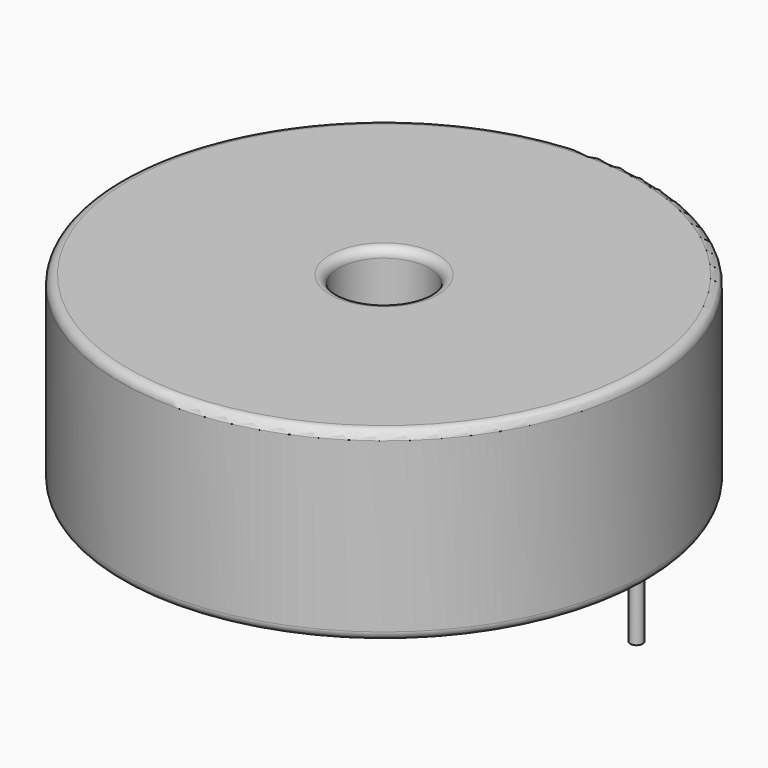
from build123d import *

# Parameters (mm, degrees)
SKETCH_R          = 14.9
SKETCH_R_2        = 2.55
PAD_DEPTH         = 10.5
FILLET_R          = 0.5
SKETCH001_R       = 0.35
PAD001_DEPTH      = 5.25
PAD001_DEPTH_BACK = 3.5


with BuildPart() as fillet_body:
    # Sketch → Pad (new body)
    with BuildSketch(Plane.XY.offset(0.1)):
        with Locations((14.25, 0)):
            Circle(SKETCH_R)
        with Locations((14.25, 0)):
            Circle(SKETCH_R_2, mode=Mode.SUBTRACT)
    extrude(amount=PAD_DEPTH)

    # Fillet
    fillet_edges = [fillet_body.edges().sort_by_distance(p)[0] for p in [
        (11.7, 0, 10.6),
        (-0.65, 0, 10.6),
        (-0.65, 0, 0.1),
    ]]
    fillet(fillet_edges, radius=FILLET_R)


with BuildPart() as obj1:
    # Sketch001 → Pad001 (new body, two sides)
    with BuildSketch(Plane.XY.offset(0.5)) as pad001_sk:
        Circle(SKETCH001_R)
        with Locations((28.5, 0)):
            Circle(SKETCH001_R)
    extrude(amount=PAD001_DEPTH)
    extrude(pad001_sk.sketch, amount=-PAD001_DEPTH_BACK)

    # obj1: union Fillet body
    add(fillet_body.part)


solid = obj1.part
